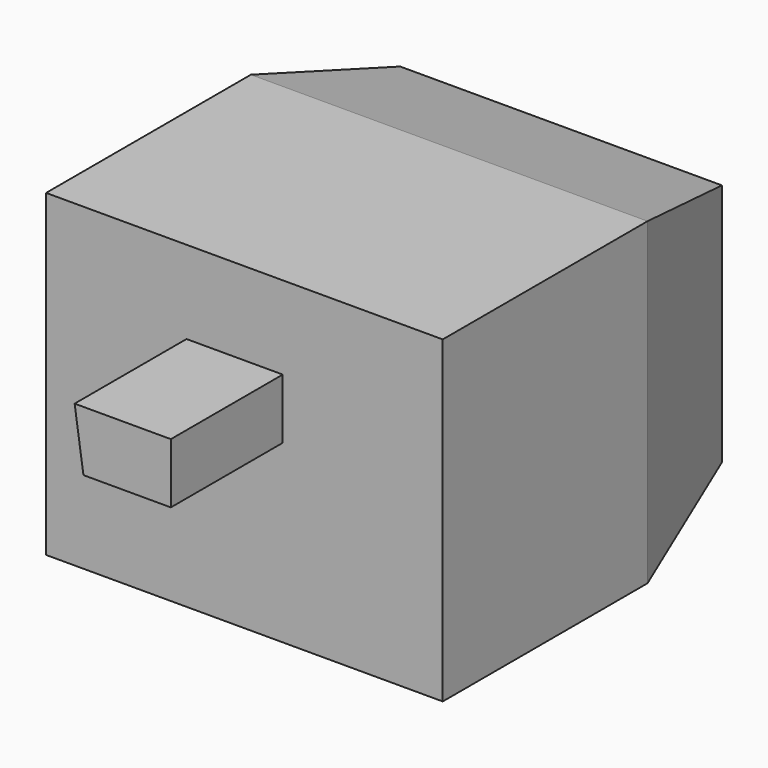
from build123d import *

# Parameters (mm, degrees)
F0_W     = 58.4211573005
F0_H     = 44.2717149854
F1_DEPTH = 25.4
F1_TAPER = -15
F2_DEPTH = 46.482
F4_DEPTH = 25.4


with BuildPart() as f1:
    # F0 (on Front) → F1 (new body)
    with BuildSketch(Plane.XZ):
        with Locations((29.2105786502, 22.1358574927)):
            Rectangle(F0_W, F0_H)
    extrude(amount=F1_DEPTH, taper=F1_TAPER)

    # F2 (add): a face of the model
    f2_faces = [f1.faces().sort_by_distance(p)[0] for p in [
        (29.2105786502, -25.4, 22.1358574927),
    ]]
    extrude(f2_faces, amount=F2_DEPTH)

    # F3 (on face) → F4 (join)
    with BuildSketch(Plane.XZ.offset(71.882)):
        Polygon((18.6991244555, 36.0079780221), (20.2949475497, 25.0953584909), (36.1699461937, 25.0953584909), (36.1699461937, 36.0079780221), align=None)
    extrude(amount=F4_DEPTH)


solid = f1.part
